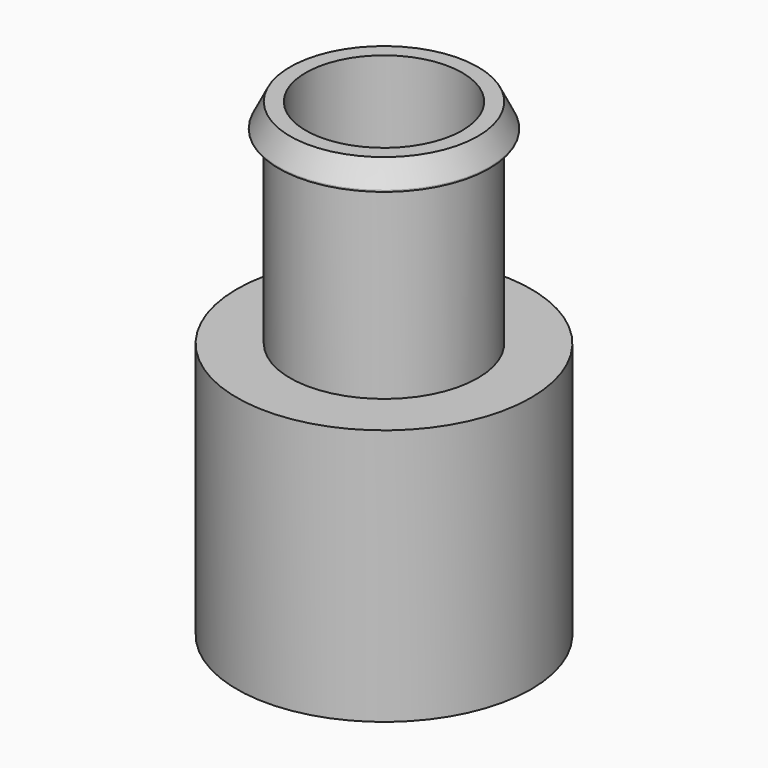
from build123d import *

# Parameters (mm, degrees)
FILLET_R = 0.2


with BuildPart() as part:
    # Sketch → Revolution (revolve)
    with BuildSketch(Plane.XZ):
        Polygon((15, 75), (17, 71), (15, 71), (15, 41), (23.5, 41), (23.5, 0), (20.5, 0), (20.5, 26), (18.5, 26), (12.5, 39), (12.5, 75), align=None)
    revolve(axis=Axis((0, 0, 0), (0, 0, 1)))

    # Fillet
    fillet_edges = [part.edges().sort_by_distance(p)[0] for p in [
        (-17, 0, 71),
    ]]
    fillet(fillet_edges, radius=FILLET_R)


solid = part.part
